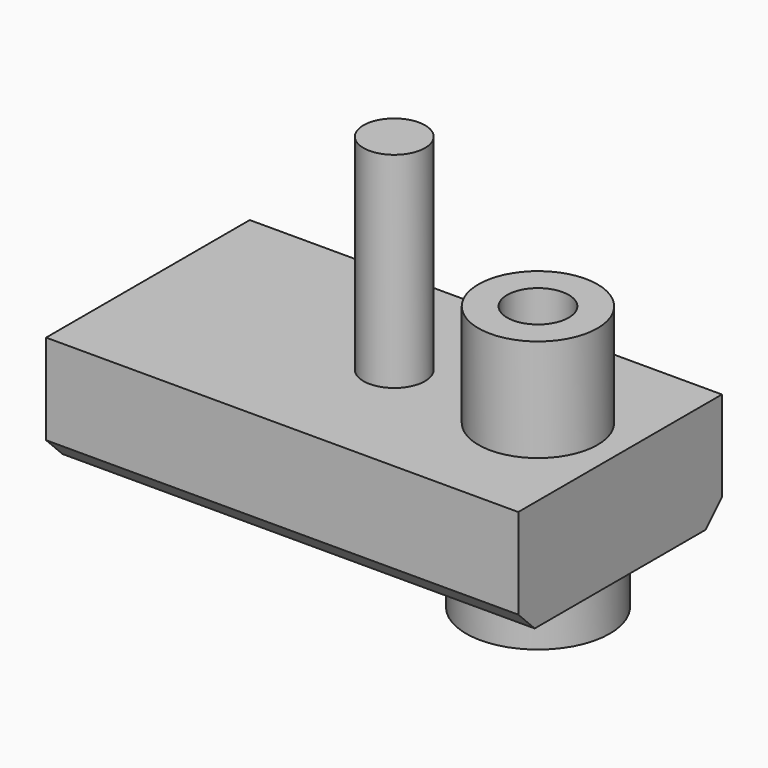
from build123d import *

# Parameters (mm, degrees)
F0_W     = 23
F0_H     = 12.4
F0_R     = 1.5
F1_DEPTH = 5.4
F2_SIZE  = 1
F3_R     = 2.9
F3_R_2   = 1.5
F4_DEPTH = 5
F5_R     = 3.5
F5_R_2   = 3
F6_DEPTH = 2.5
F7_DEPTH = 3.5
F8_R     = 1.5
F9_DEPTH = 10


with BuildPart() as f1:
    # F0 (on Top) → F1 (new body)
    with BuildSketch(Plane.XY):
        with Locations((11.5, 6.2)):
            Rectangle(F0_W, F0_H)
        with Locations((19, 6.2)):
            Circle(F0_R, mode=Mode.SUBTRACT)
    extrude(amount=F1_DEPTH)

    # F2
    f2_edges = [f1.edges().sort_by_distance(p)[0] for p in [
        (11.5, 0, 0),
        (11.5, 12.4, 0),
    ]]
    chamfer(f2_edges, length=F2_SIZE)

    # F3 (on face) → F4 (join)
    with BuildSketch(Plane.XY.offset(5.4)):
        with Locations((19, 6.2)):
            Circle(F3_R)
        with Locations((19, 6.2)):
            Circle(F3_R_2, mode=Mode.SUBTRACT)
    extrude(amount=F4_DEPTH)

    # F5 (on face) → F6 (join)
    with BuildSketch(Plane(origin=(0, 0, 0), x_dir=(1, 0, 0), z_dir=(0, 0, -1))):
        with Locations((19, -6.2)):
            Circle(F5_R)
        with Locations((19, -6.2)):
            Circle(F5_R_2, mode=Mode.SUBTRACT)
    extrude(amount=F6_DEPTH)

    # F7 (cut): a face of the model
    f7_faces = [f1.faces().sort_by_distance(p)[0] for p in [
        (16.0848528137, 6.2, 0),
    ]]
    extrude(f7_faces, amount=-F7_DEPTH, mode=Mode.SUBTRACT)

    # F8 (on face) → F9 (join)
    with BuildSketch(Plane.XY.offset(5.4)):
        with Locations((12, 6.2)):
            Circle(F8_R)
    extrude(amount=F9_DEPTH)


solid = f1.part
